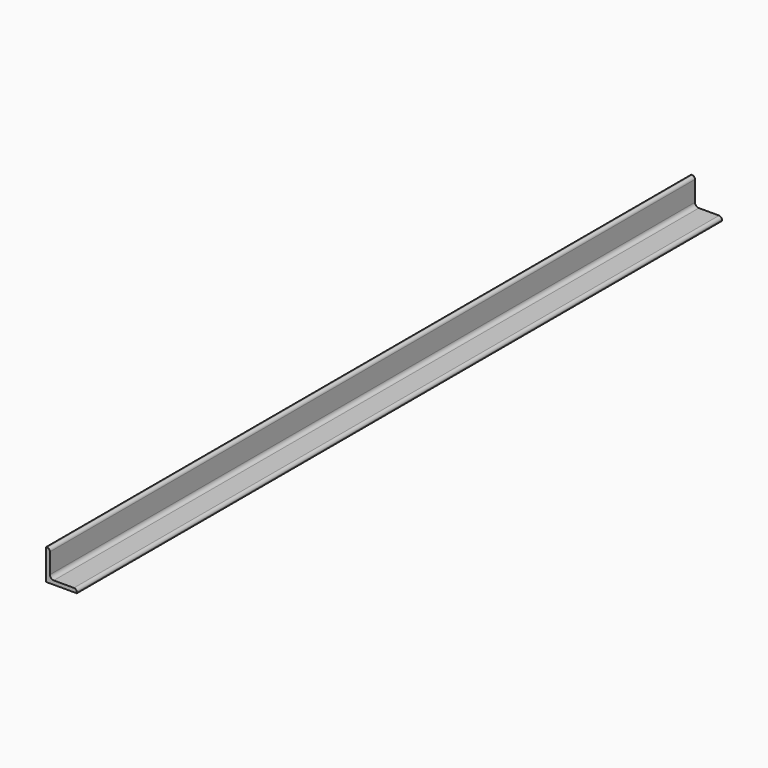
from build123d import *

# Parameters (mm, degrees)
F1_DEPTH = 666.75


with BuildPart() as f1:
    # F0 (on Front) → F1 (new body)
    with BuildSketch(Plane.XZ):
        with BuildLine():
            Line((0, 25.4), (0, 0))
            Line((0, 0), (25.4, 0))
            Line((25.4, 0), (25.4, 0.7874))
            ThreePointArc((25.4, 0.7874), (24.700688, 2.475688), (23.0124, 3.175))
            Line((23.0124, 3.175), (6.35, 3.175))
            ThreePointArc((6.35, 3.175), (4.104936, 4.104936), (3.175, 6.35))
            Line((3.175, 6.35), (3.175, 23.0124))
            ThreePointArc((3.175, 23.0124), (2.475688, 24.700688), (0.7874, 25.4))
            Line((0.7874, 25.4), (0, 25.4))
        make_face()
    extrude(amount=F1_DEPTH)


solid = f1.part
